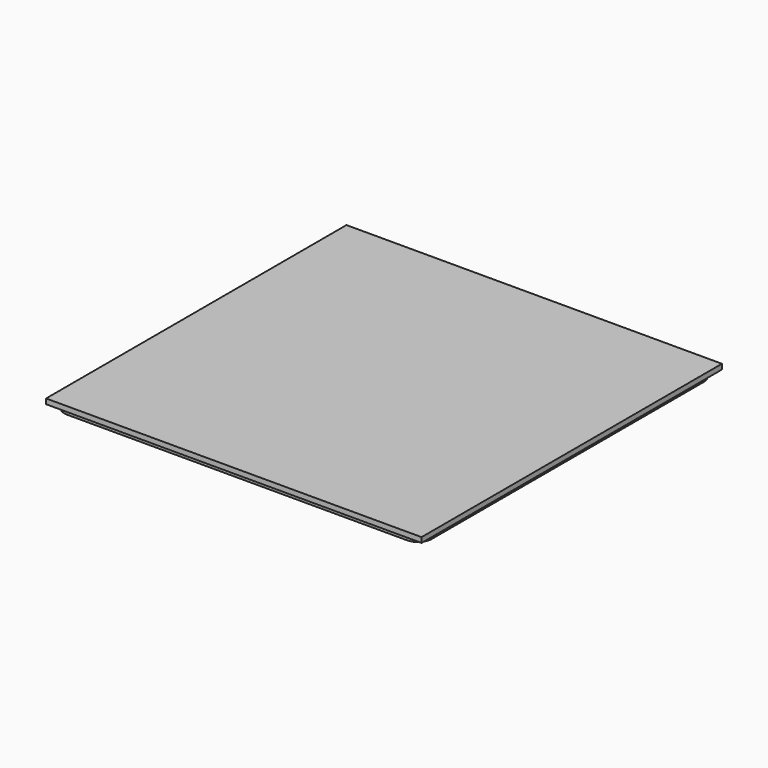
from build123d import *

# Parameters (mm, degrees)
SKETCH_W      = 110
SKETCH_H      = 110
PAD_DEPTH     = 1.5
PAD001_DEPTH  = 1.5
SKETCH002_R   = 5
SKETCH002_R_2 = 1.5
PAD002_DEPTH  = 1.5


with BuildPart() as part:
    # Sketch → Pad (new body)
    with BuildSketch(Plane.XY):
        Rectangle(SKETCH_W, SKETCH_H)
    extrude(amount=PAD_DEPTH)

    # Sketch001 → Pad001 (join)
    with BuildSketch(Plane(origin=(0, 0, 0), x_dir=(1, 0, 0), z_dir=(0, 0, -1))):
        with BuildLine():
            Line((-49.8, 53.8), (49.8, 53.8))
            ThreePointArc((53.8, 49.8), (52.628427, 52.628427), (49.8, 53.8))
            Line((53.8, 49.8), (53.8, -49.8))
            ThreePointArc((49.8, -53.8), (52.628427, -52.628427), (53.8, -49.8))
            Line((49.8, -53.8), (-49.8, -53.8))
            ThreePointArc((-53.8, -49.8), (-52.628427, -52.628427), (-49.8, -53.8))
            Line((-53.8, -49.8), (-53.8, 49.8))
            ThreePointArc((-49.8, 53.8), (-52.628427, 52.628427), (-53.8, 49.8))
        make_face()
        with BuildLine():
            Line((-49.8, 52.8), (49.8, 52.8))
            ThreePointArc((52.8, 49.8), (51.92132, 51.92132), (49.8, 52.8))
            Line((52.8, 49.8), (52.8, -49.8))
            ThreePointArc((49.8, -52.8), (51.92132, -51.92132), (52.8, -49.8))
            Line((49.8, -52.8), (-49.8, -52.8))
            ThreePointArc((-52.8, -49.8), (-51.92132, -51.92132), (-49.8, -52.8))
            Line((-52.8, -49.8), (-52.8, 49.8))
            ThreePointArc((-49.8, 52.8), (-51.92132, 51.92132), (-52.8, 49.8))
        make_face(mode=Mode.SUBTRACT)
    extrude(amount=PAD001_DEPTH)

    # Sketch002 → Pad002 (join)
    with BuildSketch(Plane(origin=(0, 0, 0), x_dir=(1, 0, 0), z_dir=(0, 0, -1))):
        with Locations((-40.005, 40.005)):
            Circle(SKETCH002_R)
        with Locations((-40.005, 49.505)):
            Circle(SKETCH002_R_2)
        with Locations((-13.335, 40.005)):
            Circle(SKETCH002_R)
        with Locations((-13.335, 49.505)):
            Circle(SKETCH002_R_2)
        with Locations((13.335, 40.005)):
            Circle(SKETCH002_R)
        with Locations((13.335, 49.505)):
            Circle(SKETCH002_R_2)
        with Locations((40.005, 40.005)):
            Circle(SKETCH002_R)
        with Locations((40.005, 49.505)):
            Circle(SKETCH002_R_2)
        with Locations((-40.005, 13.335)):
            Circle(SKETCH002_R)
        with Locations((-40.005, 22.835)):
            Circle(SKETCH002_R_2)
        with Locations((-13.335, 13.335)):
            Circle(SKETCH002_R)
        with Locations((-13.335, 22.835)):
            Circle(SKETCH002_R_2)
        with Locations((13.335, 13.335)):
            Circle(SKETCH002_R)
        with Locations((13.335, 22.835)):
            Circle(SKETCH002_R_2)
        with Locations((40.005, 13.335)):
            Circle(SKETCH002_R)
        with Locations((40.005, 22.835)):
            Circle(SKETCH002_R_2)
        with Locations((-40.005, -13.335)):
            Circle(SKETCH002_R)
        with Locations((-40.005, -3.835)):
            Circle(SKETCH002_R_2)
        with Locations((-13.335, -13.335)):
            Circle(SKETCH002_R)
        with Locations((-13.335, -3.835)):
            Circle(SKETCH002_R_2)
        with Locations((13.335, -13.335)):
            Circle(SKETCH002_R)
        with Locations((13.335, -3.835)):
            Circle(SKETCH002_R_2)
        with Locations((40.005, -13.335)):
            Circle(SKETCH002_R)
        with Locations((40.005, -3.835)):
            Circle(SKETCH002_R_2)
        with Locations((-40.005, -40.005)):
            Circle(SKETCH002_R)
        with Locations((-40.005, -30.505)):
            Circle(SKETCH002_R_2)
        with Locations((-13.335, -40.005)):
            Circle(SKETCH002_R)
        with Locations((-13.335, -30.505)):
            Circle(SKETCH002_R_2)
        with Locations((13.335, -40.005)):
            Circle(SKETCH002_R)
        with Locations((13.335, -30.505)):
            Circle(SKETCH002_R_2)
        with Locations((40.005, -40.005)):
            Circle(SKETCH002_R)
        with Locations((40.005, -30.505)):
            Circle(SKETCH002_R_2)
    extrude(amount=PAD002_DEPTH)


solid = part.part
